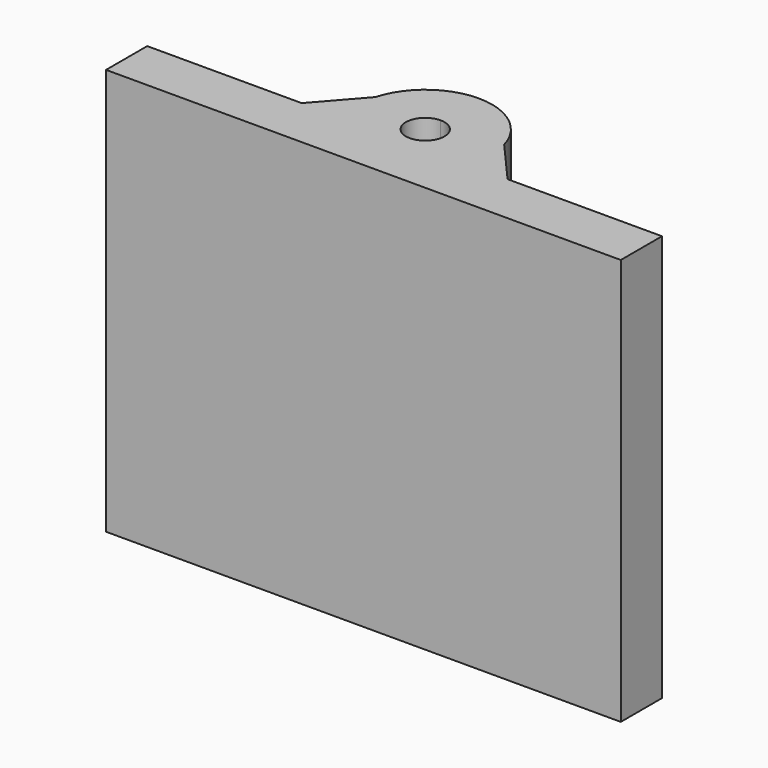
from build123d import *

# Parameters (mm, degrees)
EXTRUDE_DEPTH = 79


with BuildPart() as obj1:
    # Part__Mirroring → Extrude (new body)
    with BuildSketch(Plane(origin=(-25, -1.004737, 0), x_dir=(0, 1, 0), z_dir=(0, 0, 1))):
        with BuildLine():
            ThreePointArc((14.004737, -25), (11.372036, -17.156587), (4.540257, -12.49))
            Line((4.540257, -12.49), (-4.000791, -5))
            Line((-4.000791, -5), (-4.004737, 25))
            Line((-4.004737, 25), (-14.004737, 25))
            Line((-14.004737, 25), (-14.004737, -25))
            Line((-14.004737, -25), (-2.745263, -25))
            ThreePointArc((-2.745263, -25), (1.004737, -21.25), (4.754737, -25))
            Line((4.754737, -25), (14.004737, -25))
        make_face()
    extrude(amount=EXTRUDE_DEPTH)


with BuildPart() as fusion:
    # Part__Mirroring001: instance of obj1
    add(obj1.part.mirror(Plane(origin=(0, 0, 0), x_dir=(0, -1, 0), z_dir=(1, 0, 0))))

    # Fusion: union obj1
    add(obj1.part)


solid = fusion.part
